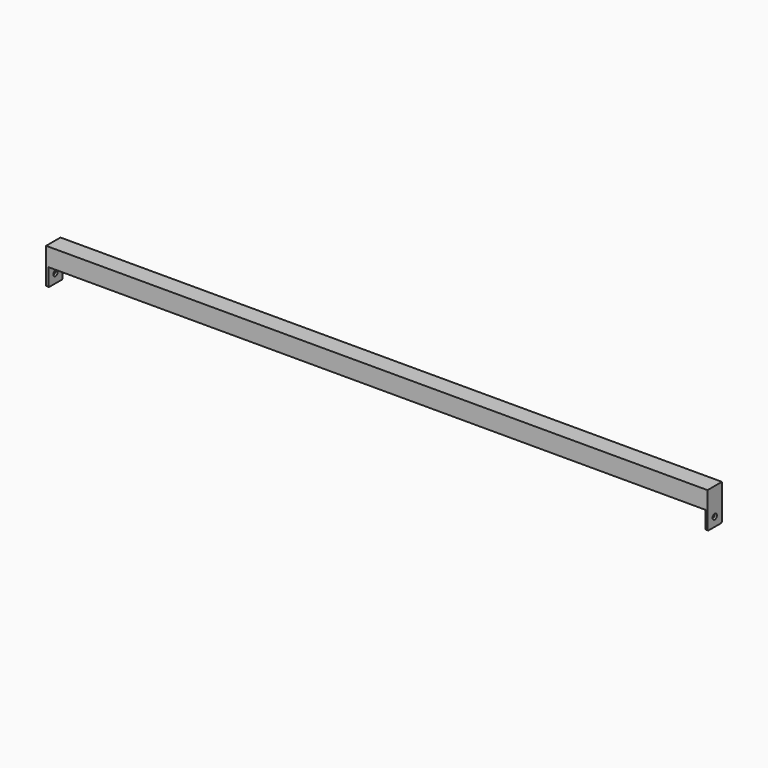
from build123d import *

# Parameters (mm, degrees)
F0_W     = 40
F0_H     = 40
F0_W_2   = 35
F0_H_2   = 35
F1_DEPTH = 730
F2_R     = 6
F3_DEPTH = 5


with BuildPart() as f1:
    # F0 (on Right) → F1 (new body, symmetric)
    with BuildSketch(Plane.YZ):
        Rectangle(F0_W, F0_H)
        Rectangle(F0_W_2, F0_H_2, mode=Mode.SUBTRACT)
    extrude(amount=F1_DEPTH, both=True)

    # F2 (on face) → F3 (join)
    with BuildSketch(Plane.YZ.offset(730)):
        with BuildLine():
            Line((20, -20), (20, 20))
            Line((20, 20), (-20, 20))
            Line((-20, 20), (-20, -57))
            ThreePointArc((-20, -57), (-19.1213203436, -59.1213203436), (-17, -60))
            Line((-17, -60), (17, -60))
            ThreePointArc((17, -60), (19.1213203436, -59.1213203436), (20, -57))
            Line((20, -57), (20, -20))
        make_face()
        with Locations((0, -40)):
            Circle(F2_R, mode=Mode.SUBTRACT)
    extrude(amount=F3_DEPTH)

    # F4: F1 across plane


with BuildPart() as f1_1:
    add(f1.part)
    add(f1.part.mirror(Plane.YZ))


solid = f1_1.part
